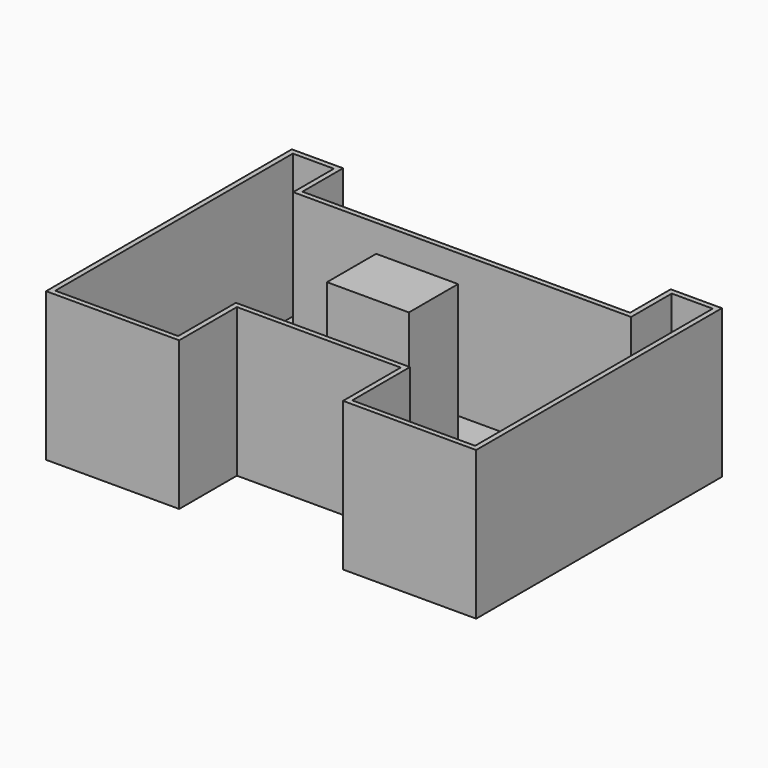
from build123d import *

# Parameters (mm, degrees)
F1_DEPTH = 3.175
F3_DEPTH = 88.9
F4_W     = 50.8
F4_H     = 38.1
F5_DEPTH = 95.25


with BuildPart() as f1:
    # F0 (on Top) → F1 (new body)
    with BuildSketch(Plane.XY):
        Polygon((-138.109116, 103.285787), (-169.859116, 103.285787), (-169.859116, -87.214213), (-87.309116, -87.214213), (-87.309116, -42.498762), (14.290884, -42.498762), (14.290884, -87.214213), (96.840884, -87.214213), (96.840884, 103.285787), (65.090884, 103.285787), (65.090884, 71.801238), (-138.109116, 71.801238), align=None)
    extrude(amount=-F1_DEPTH)

    # F2 (on face) → F3 (join)
    with BuildSketch(Plane.XY):
        Polygon((-138.109116, 103.285787), (-169.859116, 103.285787), (-169.859116, -87.214213), (-87.309116, -87.214213), (-87.309116, -42.498762), (14.290884, -42.498762), (14.290884, -87.214213), (96.840884, -87.214213), (96.840884, 103.285787), (65.090884, 103.285787), (65.090884, 71.801238), (-138.109116, 71.801238), align=None)
        Polygon((-166.684116, -84.039213), (-166.684116, 100.110787), (-141.284116, 100.110787), (-141.284116, 68.626238), (68.265884, 68.626238), (68.265884, 100.110787), (93.665884, 100.110787), (93.665884, -84.039213), (40.343958, -84.039213), (17.465884, -84.039213), (17.465884, -39.323762), (-90.484116, -39.323762), (-90.484116, -84.039213), (-116.960541, -84.039213), align=None, mode=Mode.SUBTRACT)
    extrude(amount=F3_DEPTH)

    # F4 (on face) → F5 (join)
    with BuildSketch(Plane.XY):
        with Locations((-36.509116, 14.651238)):
            Rectangle(F4_W, F4_H)
    extrude(amount=F5_DEPTH)


solid = f1.part
